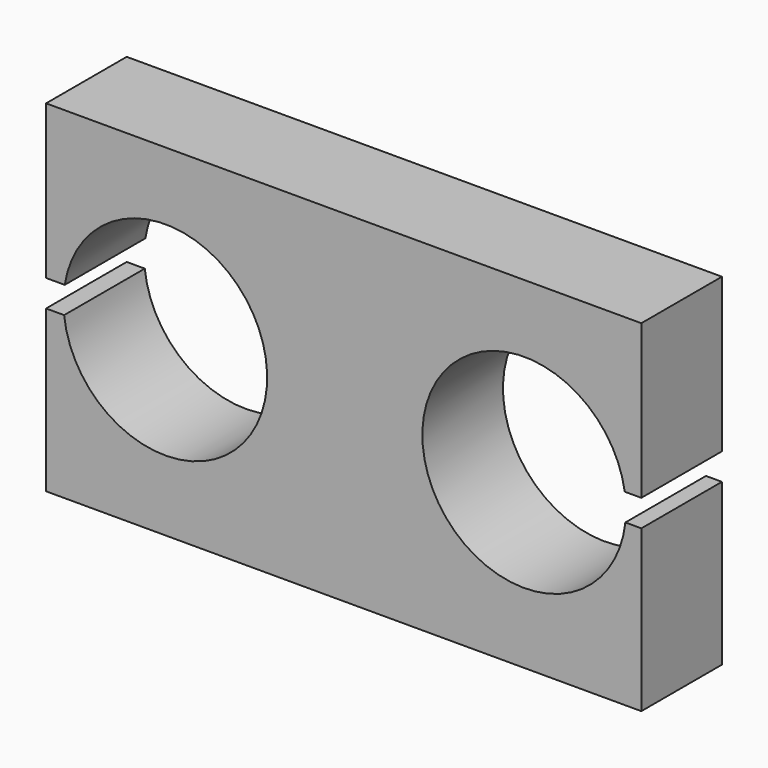
from build123d import *

# Parameters (mm, degrees)
F1_DEPTH = 2.5


with BuildPart() as f1:
    # F0 (on Front) → F1 (new body)
    with BuildSketch(Plane.XZ):
        with BuildLine():
            ThreePointArc((-6.948058, 0), (-1.926018, -0.445733), (-6.962992, -0.665865))
            Line((-6.962992, -0.665865), (-7.411015, -0.665865))
            Line((-7.411015, -0.665865), (-7.411015, -4.660175))
            Line((-7.411015, -4.660175), (-6.811831, -4.660175))
            Line((-6.811831, -4.660175), (7.358776, -4.660175))
            Line((7.358776, -4.660175), (7.358776, -0.665865))
            Line((7.358776, -0.665865), (6.962992, -0.665865))
            ThreePointArc((6.962992, -0.665865), (1.926018, -0.445733), (6.948058, 0))
            Line((6.948058, 0), (7.358776, 0))
            Line((7.358776, 0), (7.358776, 3.814875))
            Line((7.358776, 3.814875), (-6.611224, 3.814875))
            Line((-6.611224, 3.814875), (-7.411015, 3.814875))
            Line((-7.411015, 3.814875), (-7.411015, 0))
            Line((-7.411015, 0), (-6.948058, 0))
        make_face()
    extrude(amount=F1_DEPTH)


solid = f1.part
